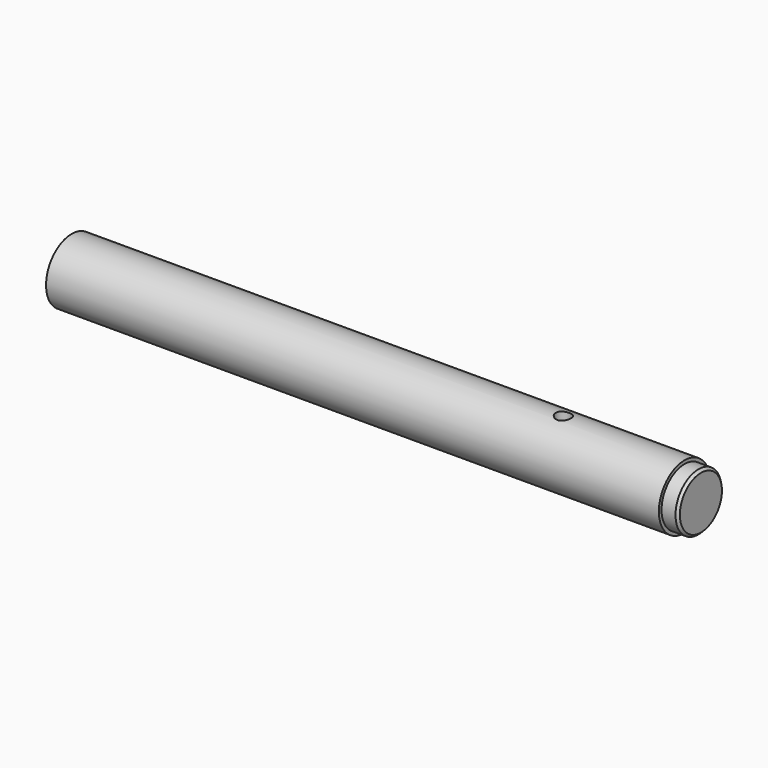
from build123d import *

# Parameters (mm, degrees)
F0_R      = 2.65
F1_DEPTH  = 50.6
F2_R      = 1.1
F3_DEPTH  = 5
F4_R      = 0.625
F5_DEPTH  = 12.5
F6_R      = 2
F7_DEPTH  = 2.5
F8_R      = 2.375
F9_DEPTH  = 5
F10_R     = 2.37
F11_DEPTH = 6.35
F12_SIZE  = 0.2


with BuildPart() as f1:
    # F0 (on Right) → F1 (new body)
    with BuildSketch(Plane.YZ):
        Circle(F0_R)
    extrude(amount=F1_DEPTH)

    # F2 (on Right) → F3 (cut)
    with BuildSketch(Plane.YZ):
        Circle(F2_R)
    extrude(amount=F3_DEPTH, mode=Mode.SUBTRACT)

    # F4 (on Top) → F5 (cut, symmetric)
    with BuildSketch(Plane.XY):
        with Locations((40.6, 0)):
            Circle(F4_R)
    extrude(amount=F5_DEPTH, both=True, mode=Mode.SUBTRACT)

    # F6 (on face) → F7 (cut)
    with BuildSketch(Plane(origin=(0, 0, 0), x_dir=(0, -1, 0), z_dir=(-1, 0, 0))):
        Circle(F6_R)
    extrude(amount=-F7_DEPTH, mode=Mode.SUBTRACT)

    # F8 (on face) → F9 (cut)
    with BuildSketch(Plane.YZ.offset(50.6)):
        Circle(F8_R)
    extrude(amount=-F9_DEPTH, mode=Mode.SUBTRACT)


with BuildPart() as f11:
    # F10 (on face) → F11 (new body)
    with BuildSketch(Plane.YZ.offset(45.6)):
        Circle(F10_R)
    extrude(amount=F11_DEPTH)

    # F12
    f12_edges = [f11.edges().sort_by_distance(p)[0] for p in [
        (51.95, -2.37, 0),
        (45.6, -2.37, 0),
    ]]
    chamfer(f12_edges, length=F12_SIZE)


solid = Compound([f1.part, f11.part])
